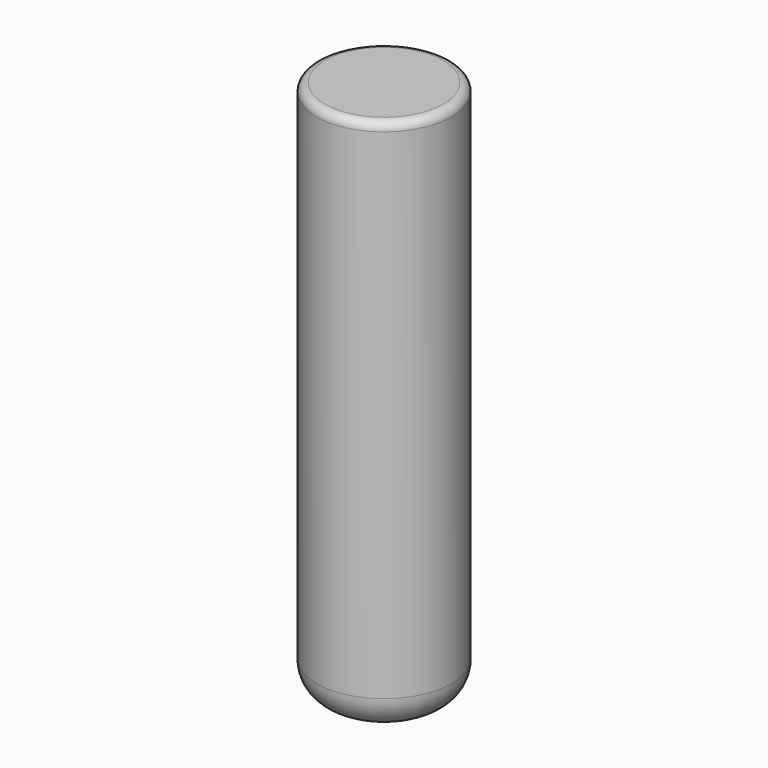
from build123d import *

# Parameters (mm, degrees)
F0_R     = 12.7
F1_DEPTH = 88.9
F2_R     = 12.7
F3_DEPTH = 12.7
F4_R     = 1.5875
F5_R     = 6.35


with BuildPart() as f1:
    # F0 (on Top) → F1 (new body)
    with BuildSketch(Plane.XY):
        Circle(F0_R)
        with BuildLine():
            ThreePointArc((-2.9826358368, 1.0883512598), (-1.866218176, 2.5686289571), (-0.1133983961, 3.1729742835))
            Line((-0.1133983961, 3.1729742835), (0, 2.9765625))
            Line((0, 2.9765625), (0.1133983961, 3.1729742835))
            ThreePointArc((0.1133983961, 3.1729742835), (1.866218176, 2.5686289571), (2.9826358368, 1.0883512598))
            Line((2.9826358368, 1.0883512598), (2.8308791618, 0.9198083973))
            Line((2.8308791618, 0.9198083973), (3.0527198999, 0.8726546928))
            ThreePointArc((3.0527198999, 0.8726546928), (3.0196044392, -0.9811289571), (1.9567687193, -2.5003362132))
            Line((1.9567687193, -2.5003362132), (1.74957954, -2.4080896473))
            Line((1.74957954, -2.4080896473), (1.7732862602, -2.6336440229))
            ThreePointArc((1.7732862602, -2.6336440229), (0, -3.175), (-1.7732862602, -2.6336440229))
            Line((-1.7732862602, -2.6336440229), (-1.74957954, -2.4080896473))
            Line((-1.74957954, -2.4080896473), (-1.9567687193, -2.5003362132))
            ThreePointArc((-1.9567687193, -2.5003362132), (-3.0196044392, -0.9811289571), (-3.0527198999, 0.8726546928))
            Line((-3.0527198999, 0.8726546928), (-2.8308791618, 0.9198083973))
            Line((-2.8308791618, 0.9198083973), (-2.9826358368, 1.0883512598))
        make_face(mode=Mode.SUBTRACT)
    extrude(amount=F1_DEPTH)

    # F2 (on face) → F3 (join)
    with BuildSketch(Plane.XY.offset(88.9)):
        Circle(F2_R)
        with BuildLine():
            Line((-2.8308791618, 0.9198083973), (-2.9826358368, 1.0883512598))
            ThreePointArc((-2.9826358368, 1.0883512598), (-1.866218176, 2.5686289571), (-0.1133983961, 3.1729742835))
            Line((-0.1133983961, 3.1729742835), (0, 2.9765625))
            Line((0, 2.9765625), (0.1133983961, 3.1729742835))
            ThreePointArc((0.1133983961, 3.1729742835), (1.866218176, 2.5686289571), (2.9826358368, 1.0883512598))
            Line((2.9826358368, 1.0883512598), (2.8308791618, 0.9198083973))
            Line((2.8308791618, 0.9198083973), (3.0527198999, 0.8726546928))
            ThreePointArc((3.0527198999, 0.8726546928), (3.0196044392, -0.9811289571), (1.9567687193, -2.5003362132))
            Line((1.9567687193, -2.5003362132), (1.74957954, -2.4080896473))
            Line((1.74957954, -2.4080896473), (1.7732862602, -2.6336440229))
            ThreePointArc((1.7732862602, -2.6336440229), (0, -3.175), (-1.7732862602, -2.6336440229))
            Line((-1.7732862602, -2.6336440229), (-1.74957954, -2.4080896473))
            Line((-1.74957954, -2.4080896473), (-1.9567687193, -2.5003362132))
            ThreePointArc((-1.9567687193, -2.5003362132), (-3.0196044392, -0.9811289571), (-3.0527198999, 0.8726546928))
            Line((-3.0527198999, 0.8726546928), (-2.8308791618, 0.9198083973))
        make_face(mode=Mode.SUBTRACT)
        with BuildLine():
            ThreePointArc((-0.1133983961, 3.1729742835), (-1.866218176, 2.5686289571), (-2.9826358368, 1.0883512598))
            Line((-2.9826358368, 1.0883512598), (-2.8308791618, 0.9198083973))
            Line((-2.8308791618, 0.9198083973), (-3.0527198999, 0.8726546928))
            ThreePointArc((-3.0527198999, 0.8726546928), (-3.0196044392, -0.9811289571), (-1.9567687193, -2.5003362132))
            Line((-1.9567687193, -2.5003362132), (-1.74957954, -2.4080896473))
            Line((-1.74957954, -2.4080896473), (-1.7732862602, -2.6336440229))
            ThreePointArc((-1.7732862602, -2.6336440229), (0, -3.175), (1.7732862602, -2.6336440229))
            Line((1.7732862602, -2.6336440229), (1.74957954, -2.4080896473))
            Line((1.74957954, -2.4080896473), (1.9567687193, -2.5003362132))
            ThreePointArc((1.9567687193, -2.5003362132), (3.0196044392, -0.9811289571), (3.0527198999, 0.8726546928))
            Line((3.0527198999, 0.8726546928), (2.8308791618, 0.9198083973))
            Line((2.8308791618, 0.9198083973), (2.9826358368, 1.0883512598))
            ThreePointArc((2.9826358368, 1.0883512598), (1.866218176, 2.5686289571), (0.1133983961, 3.1729742835))
            Line((0.1133983961, 3.1729742835), (0, 2.9765625))
            Line((0, 2.9765625), (-0.1133983961, 3.1729742835))
        make_face()
    extrude(amount=F3_DEPTH)

    # F4
    f4_edges = [f1.edges().sort_by_distance(p)[0] for p in [
        (-12.7, 0, 101.6),
    ]]
    fillet(f4_edges, radius=F4_R)

    # F5
    f5_edges = [f1.edges().sort_by_distance(p)[0] for p in [
        (-12.7, 0, 0),
    ]]
    fillet(f5_edges, radius=F5_R)


solid = f1.part
